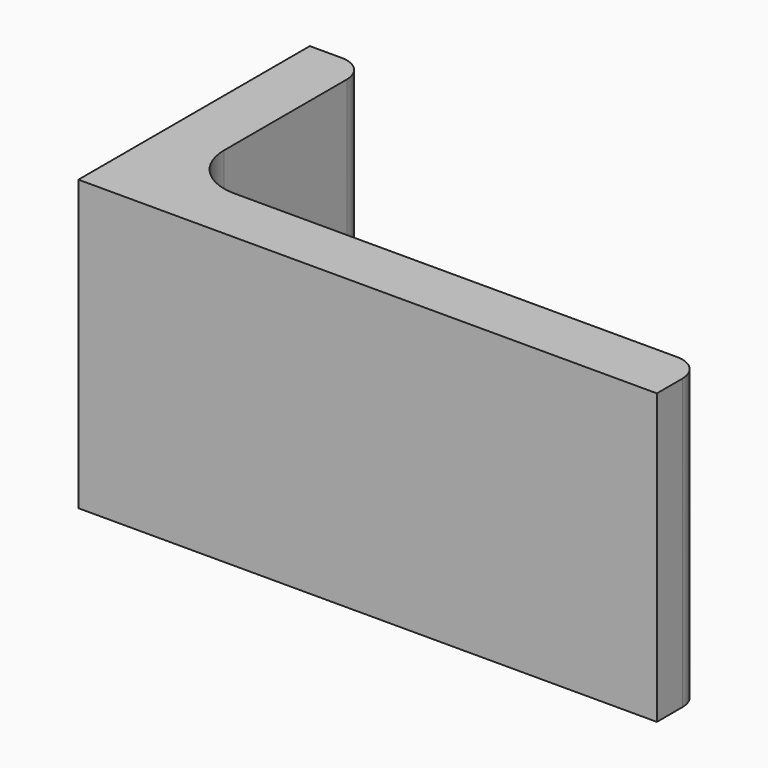
from build123d import *

# Parameters (mm, degrees)
EXTRUDE_DEPTH = 50


with BuildPart() as part:
    # Sketch → Extrude (new body)
    with BuildSketch(Plane.XY):
        with BuildLine():
            Line((0, 0), (100, 0))
            Line((100, 0), (100, 5.5))
            ThreePointArc((100, 5.5), (98.681981, 8.681981), (95.5, 10))
            Line((95.5, 10), (19, 10))
            ThreePointArc((10, 19), (12.636039, 12.636039), (19, 10))
            Line((10, 45.5), (10, 19))
            ThreePointArc((10, 45.5), (8.681981, 48.681981), (5.5, 50))
            Line((0, 50), (5.5, 50))
            Line((0, 0), (0, 50))
        make_face()
    extrude(amount=EXTRUDE_DEPTH)


solid = part.part
